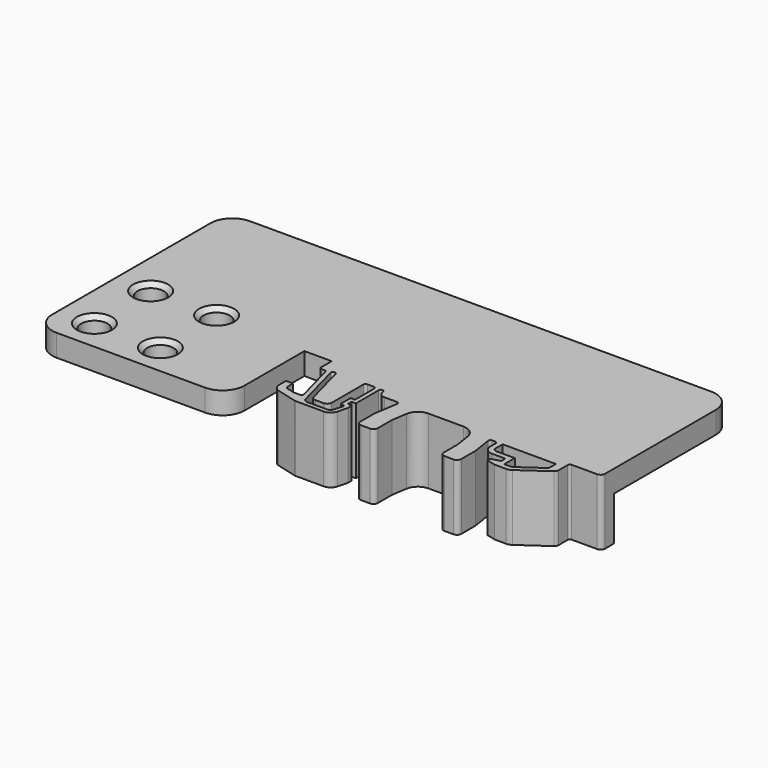
from build123d import *

# Parameters (mm, degrees)
SKETCH_R     = 3
PAD_DEPTH    = 15
POCKET_DEPTH = 10.001
CHAMFER_SIZE = 1


with BuildPart() as part:
    # Sketch → Pad (new body)
    with BuildSketch(Plane.XY):
        with BuildLine():
            Line((-30, 10), (-30, 7))
            ThreePointArc((-30, 7), (-29.853553, 6.646447), (-29.5, 6.5))
            Line((-29.5, 6.5), (-28.829405, 6.5))
            ThreePointArc((-28.346442, 6.12941), (-28.525024, 6.396677), (-28.829405, 6.5))
            Line((-28.346442, 6.12941), (-25.908104, -2.97059))
            ThreePointArc((-26.391067, -3.6), (-25.99439, -3.404381), (-25.908104, -2.97059))
            Line((-27.753955, -3.6), (-26.391067, -3.6))
            Line((-29.62941, -3.097473), (-27.753955, -3.6))
            ThreePointArc((-30, -2.61451), (-29.896677, -2.918891), (-29.62941, -3.097473))
            Line((-30, -2.61451), (-30, -1))
            Line((-30, -1), (-31.6, -1))
            Line((-31.6, -1), (-31.6, -3))
            ThreePointArc((-31.6, -3), (-31.228036, -4.095771), (-30.265874, -4.738666))
            Line((-30.265874, -4.738666), (-25.68568, -5.965926))
            ThreePointArc((-25.68568, -5.965926), (-25.557387, -5.991445), (-25.426861, -6))
            Line((-25.426861, -6), (-19.034654, -6))
            ThreePointArc((-19.034654, -6), (-17.817131, -5.586707), (-17.102802, -4.517638))
            Line((-17.102802, -4.517638), (-16.5, -2.267949))
            Line((-16.5, -2.267949), (-16.5, -1.267949))
            Line((-16.5, -1.267949), (-17.5, -1))
            Line((-17.5, -1), (-17.5, 0))
            Line((-17.5, 0), (-16.5, 0))
            Line((-16.5, 0), (-16.5, 6.5))
            ThreePointArc((-15.5, 6.5), (-16, 7), (-16.5, 6.5))
            ThreePointArc((-15.5, 6.5), (-15.06066, 5.43934), (-14, 5))
            Line((-14, 5), (-11.154762, 5))
            ThreePointArc((-10.660644, 4.423529), (-10.775134, 4.825396), (-11.154762, 5))
            Line((-10.660644, 4.423529), (-11.5, -1))
            Line((-11.5, -1), (-11.5, -5))
            ThreePointArc((-11.5, -5), (-11.207107, -5.707107), (-10.5, -6))
            Line((-10.5, -6), (-8.5, -6))
            ThreePointArc((-8.5, -6), (-7.792893, -5.707107), (-7.5, -5))
            Line((-7.5, -5), (-7.5, -1))
            Line((-7.5, -1), (-6.964706, 2.458824))
            ThreePointArc((-4, 5), (-5.952374, 4.27777), (-6.964706, 2.458824))
            Line((-4, 5), (4, 5))
            ThreePointArc((6.964706, 2.458824), (5.952374, 4.27777), (4, 5))
            Line((6.964706, 2.458824), (7.5, -1))
            Line((7.5, -1), (7.5, -5))
            ThreePointArc((7.5, -5), (7.792893, -5.707107), (8.5, -6))
            Line((8.5, -6), (10.5, -6))
            ThreePointArc((10.5, -6), (11.207107, -5.707107), (11.5, -5))
            Line((11.5, -5), (11.5, -1))
            Line((11.5, -1), (10.815406, 3.423529))
            ThreePointArc((11.309524, 4), (10.929896, 3.825396), (10.815406, 3.423529))
            Line((11.309524, 4), (12, 4))
            ThreePointArc((12.5, 3.5), (12.353553, 3.853553), (12, 4))
            Line((12.5, 3.5), (12.5, 2))
            ThreePointArc((12.5, 2), (13.085786, 0.585786), (14.5, 0))
            Line((14.5, 0), (17.5, 0))
            Line((17.5, 0), (17.5, -1.2))
            Line((17.5, -1.2), (15.5, -1.7))
            Line((15.5, -1.7), (15.5, -2.5))
            Line((15.5, -2.5), (17.5, -3))
            Line((17.5, -3), (20.1, -3))
            ThreePointArc((20.1, -3), (20.701412, -2.907434), (21.247153, -2.638304))
            Line((21.247153, -2.638304), (27.272726, 1.580848))
            ThreePointArc((27.272726, 1.580848), (27.586161, 1.938251), (27.69915, 2.4))
            Line((27.69915, 2.4), (27.69915, 5))
            ThreePointArc((28.19915, 5.5), (27.845597, 5.353553), (27.69915, 5))
            Line((34, 5.5), (28.19915, 5.5))
            ThreePointArc((34, 5.5), (34.707107, 5.792893), (35, 6.5))
            Line((35, 6.5), (35, 38))
            ThreePointArc((35, 38), (33.535534, 41.535534), (30, 43))
            Line((-75, 43), (30, 43))
            ThreePointArc((-75, 43), (-78.535534, 41.535534), (-80, 38))
            Line((-80, -7), (-80, 38))
            ThreePointArc((-80, -7), (-78.535534, -10.535534), (-75, -12))
            Line((-41.225519, -12), (-75, -12))
            ThreePointArc((-41.225519, -12), (-37.689985, -10.535534), (-36.225519, -7))
            Line((-36.225519, 10), (-36.225519, -7))
            Line((-30, 10), (-36.225519, 10))
        make_face()
        with Locations((-72, -5)):
            Circle(SKETCH_R, mode=Mode.SUBTRACT)
        with Locations((-72, 11)):
            Circle(SKETCH_R, mode=Mode.SUBTRACT)
        with Locations((-57, 11)):
            Circle(SKETCH_R, mode=Mode.SUBTRACT)
        with Locations((-57, -5)):
            Circle(SKETCH_R, mode=Mode.SUBTRACT)
        with BuildLine():
            Line((-23.894296, -2.758819), (-26.409864, 6.62941))
            ThreePointArc((-26.409864, 6.62941), (-27.022236, 6.982963), (-27.37579, 6.37059))
            Line((-27.37579, 6.37059), (-24.527648, -4.258819))
            ThreePointArc((-24.527648, -4.258819), (-24.170484, -4.793353), (-23.561722, -5))
            Line((-23.561722, -5), (-19.061722, -5))
            ThreePointArc((-19.061722, -5), (-18.452961, -4.793353), (-18.095797, -4.258819))
            Line((-18.095797, -4.258819), (-17.5, -2.035276))
            Line((-17.5, -2.035276), (-18.5, -1.767327))
            Line((-18.5, -1.767327), (-18.5, 1))
            Line((-18.5, 1), (-17.5, 1))
            Line((-17.5, 1), (-17.5, 6.5))
            ThreePointArc((-17.5, 6.5), (-17.646447, 6.853553), (-18, 7))
            Line((-18, 7), (-19.5, 7))
            ThreePointArc((-19.5, 7), (-19.853553, 6.853553), (-20, 6.5))
            Line((-20, 6.5), (-20, -2.5))
            ThreePointArc((-21, -3.5), (-20.292893, -3.207107), (-20, -2.5))
            Line((-21, -3.5), (-22.92837, -3.5))
            ThreePointArc((-23.894296, -2.758819), (-23.537131, -3.293353), (-22.92837, -3.5))
        make_face(mode=Mode.SUBTRACT)
        with BuildLine():
            Line((25.818763, 4), (13.7, 4))
            Line((13.7, 4), (13.7, 2))
            ThreePointArc((13.7, 2), (13.934315, 1.434315), (14.5, 1.2))
            Line((14.5, 1.2), (18.7, 1.2))
            Line((18.7, 1.2), (18.7, -1.8))
            Line((18.7, -1.8), (20.1, -1.8))
            ThreePointArc((20.1, -1.8), (20.400706, -1.753717), (20.673576, -1.619152))
            Line((20.673576, -1.619152), (25.477624, 1.744678))
            ThreePointArc((25.477624, 1.744678), (25.728372, 2.030601), (25.818763, 2.4))
            Line((25.818763, 2.4), (25.818763, 4))
        make_face(mode=Mode.SUBTRACT)
    extrude(amount=-PAD_DEPTH)

    # Sketch001 → Pocket (cut, through all)
    with BuildSketch(Plane.XY.offset(-5)):
        Polygon((-87.346291, -13.915375), (-32.433765, -13.915375), (-32.433765, 9.099434), (44.147678, 9.099434), (44.147678, 52.70644), (-87.346291, 52.70644), align=None)
    extrude(amount=-POCKET_DEPTH, mode=Mode.SUBTRACT)

    # Chamfer
    chamfer_edges = [part.edges().sort_by_distance(p)[0] for p in [
        (-75, 11, 0),
        (-69, 11, -2.5),
        (-75, 11, -5),
        (-60, 11, 0),
        (-54, 11, -2.5),
        (-60, 11, -5),
        (-60, -5, 0),
        (-54, -5, -2.5),
        (-60, -5, -5),
        (-75, -5, 0),
        (-69, -5, -2.5),
        (-75, -5, -5),
    ]]
    chamfer(chamfer_edges, length=CHAMFER_SIZE)


solid = part.part
